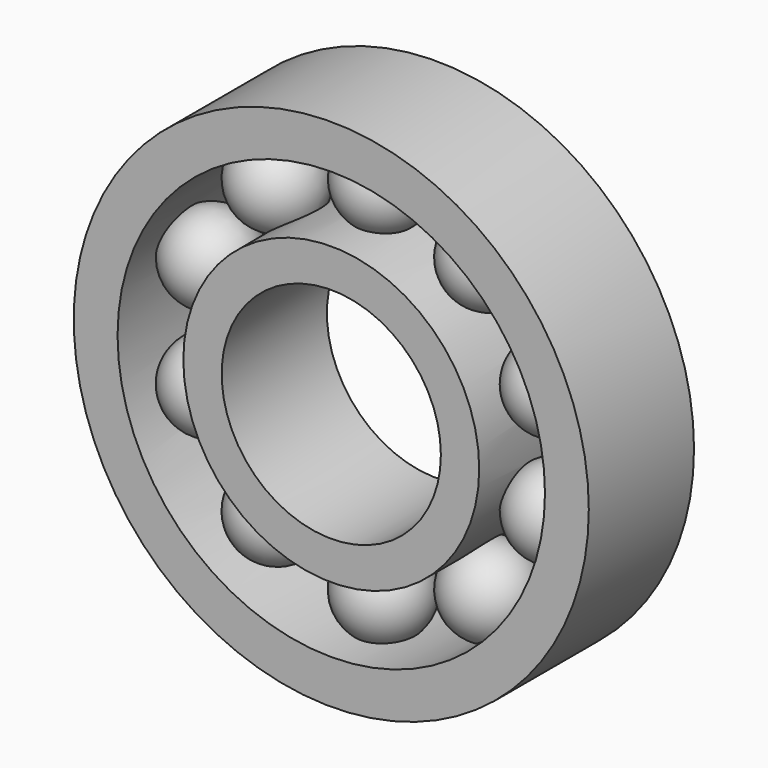
from build123d import *

# Parameters (mm, degrees)
F0_R     = 23.5
F0_R_2   = 19.5
F1_DEPTH = 12
F0_R_3   = 13.5
F0_R_4   = 10
F6_COUNT = 10


with BuildPart() as f1:
    # F0 (on Front) → F1 (new body)
    with BuildSketch(Plane.XZ):
        Circle(F0_R)
        Circle(F0_R_2, mode=Mode.SUBTRACT)
    extrude(amount=-F1_DEPTH)



with BuildPart() as f1b:
    # F0 (on Front) → F1, piece 2 (new body)
    with BuildSketch(Plane.XZ):
        Circle(F0_R_3)
        Circle(F0_R_4, mode=Mode.SUBTRACT)
    extrude(amount=-F1_DEPTH)


with BuildPart() as f1_1:
    add(f1.part)

    add(f1b.part)  # F4 merges F1b
    # F3 (on offset) → F4 (revolve)
    with BuildSketch(Plane.XZ.offset(-6)):
        with BuildLine():
            Line((0, 20.5), (0, 12.5))
            ThreePointArc((0, 12.5), (4, 16.5), (0, 20.5))
        make_face()
    revolve(axis=Axis((0, 6, 16.1697627045), (0, 0, 1)))

    # F6: F1 ×10 about axis
    f6_axis = Axis((0, 13.6424731463, 0), (0, 1, 0))


with BuildPart() as f1_2:
    add(f1_1.part)
    for i in range(1, F6_COUNT):
        add(f1_1.part.rotate(f6_axis, i * 360 / F6_COUNT))


solid = f1_2.part
